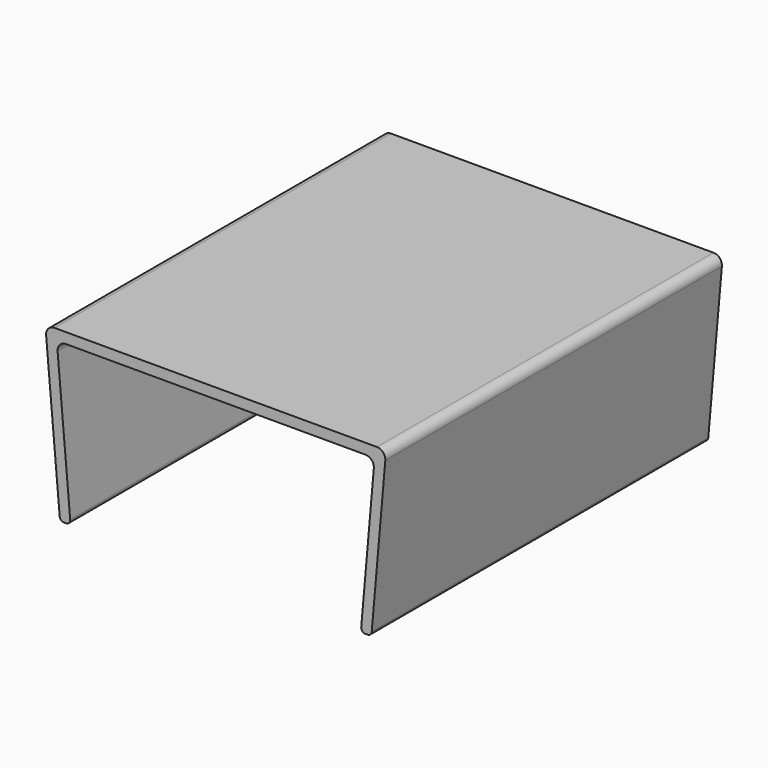
from build123d import *

# Parameters (mm, degrees)
F1_DEPTH = 100


with BuildPart() as f1:
    # F0 (on Front) → F1 (new body)
    with BuildSketch(Plane.XZ):
        with BuildLine():
            ThreePointArc((46.095114, 14.564221), (45.577279, 16.089713), (44.102724, 16.738533))
            Line((44.102724, 16.738533), (-32.532042, 16.738533))
            ThreePointArc((-32.532042, 16.738533), (-34.006596, 16.089713), (-34.524431, 14.564221))
            Line((-34.524431, 14.564221), (-31.294976, -22.348623))
            ThreePointArc((-31.294976, -22.348623), (-30.974371, -22.998745), (-30.298781, -23.261467))
            Line((-30.298781, -23.261467), (-29.796871, -23.261467))
            ThreePointArc((-29.796871, -23.261467), (-29.059594, -22.937057), (-28.800676, -22.174311))
            Line((-28.800676, -22.174311), (-31.79616, 12.064221))
            ThreePointArc((-31.79616, 12.064221), (-31.278325, 13.589713), (-29.80377, 14.238533))
            Line((-29.80377, 14.238533), (41.374453, 14.238533))
            ThreePointArc((41.374453, 14.238533), (42.849008, 13.589713), (43.366843, 12.064221))
            Line((43.366843, 12.064221), (40.371359, -22.174311))
            ThreePointArc((40.371359, -22.174311), (40.630276, -22.937057), (41.367554, -23.261467))
            Line((41.367554, -23.261467), (41.869464, -23.261467))
            ThreePointArc((41.869464, -23.261467), (42.545054, -22.998745), (42.865658, -22.348623))
            Line((42.865658, -22.348623), (46.095114, 14.564221))
        make_face()
    extrude(amount=F1_DEPTH)


solid = f1.part
